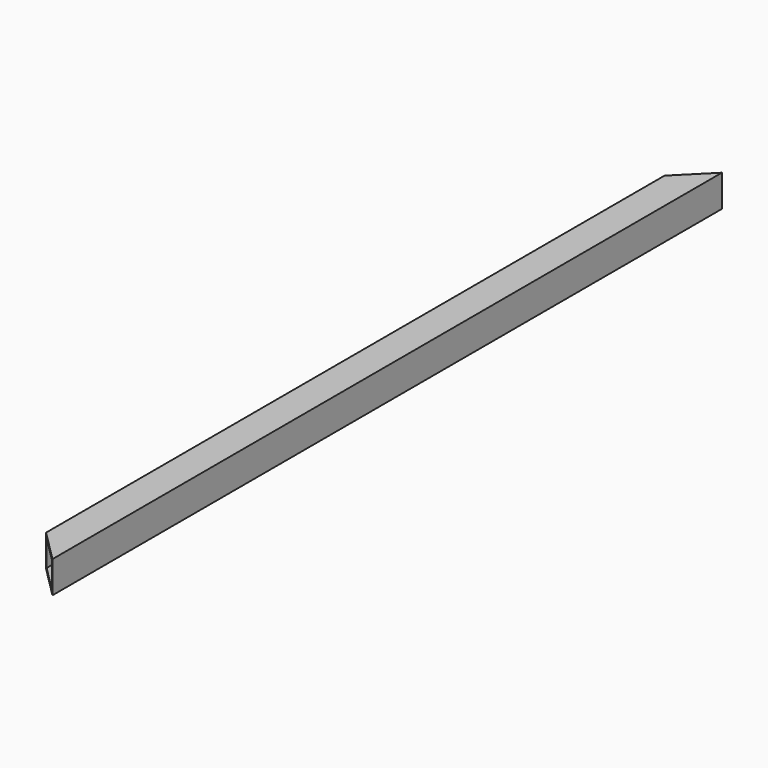
from build123d import *

# Parameters (mm, degrees)
F0_W     = 19.05
F0_H     = 19.05
F0_W_2   = 15.875
F0_H_2   = 15.875
F1_DEPTH = 500
F3_DEPTH = 9.526
F4_DEPTH = 9.526


with BuildPart() as f1:
    # F0 (on Front) → F1 (new body)
    with BuildSketch(Plane.XZ):
        Rectangle(F0_W, F0_H)
        Rectangle(F0_W_2, F0_H_2, mode=Mode.SUBTRACT)
    extrude(amount=F1_DEPTH)

    # F2 (on Top) → F3 (cut, through all)
    with BuildSketch(Plane.XY):
        Polygon((9.525, 0), (-9.525, 0), (-9.525, -19.05), align=None)
        Polygon((-9.525, -480.95), (-9.525, -500), (9.525, -500), align=None)
    extrude(amount=F3_DEPTH, mode=Mode.SUBTRACT)

    # F2 (on Top) → F4 (cut, through all)
    with BuildSketch(Plane.XY):
        Polygon((9.525, 0), (-9.525, 0), (-9.525, -19.05), align=None)
        Polygon((-9.525, -480.95), (-9.525, -500), (9.525, -500), align=None)
    extrude(amount=-F4_DEPTH, mode=Mode.SUBTRACT)


solid = f1.part
